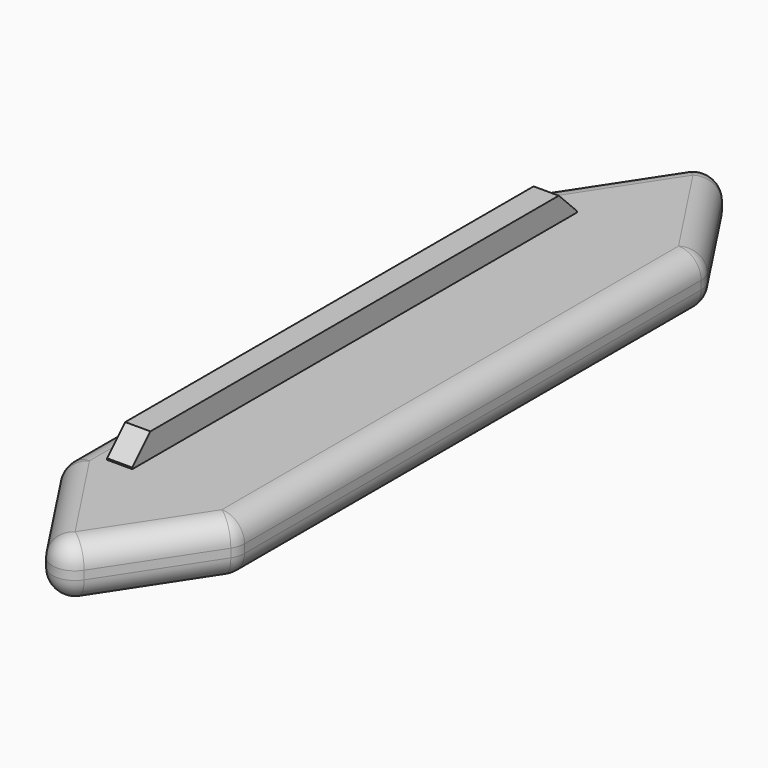
from build123d import *

# Parameters (mm, degrees)
F0_W     = 2.225
F0_H     = 49.06
F1_DEPTH = 4.5
F2_DEPTH = 2.375
F3_R     = 2
F4_SIZE  = 2


with BuildPart() as f1:
    # F0 (on Top) → F1 (new body, symmetric)
    with BuildSketch(Plane.XY):
        with Locations((-3.8675, 37.93)):
            Rectangle(F0_W, F0_H)
    extrude(amount=F1_DEPTH, both=True)

    # F0 (on Top) → F2 (join, symmetric)
    with BuildSketch(Plane.XY):
        Polygon((-7.84, 11.935359), (0, 0), (7.84, 11.935359), (7.84, 63.524641), (0, 75.46), (-7.84, 63.524641), align=None)
        with Locations((-3.8675, 37.93)):
            Rectangle(F0_W, F0_H, mode=Mode.SUBTRACT)
    extrude(amount=F2_DEPTH, both=True)

    # F3
    f3_edges = [f1.edges().sort_by_distance(p)[0] for p in [
        (-7.84, 37.73, 2.375),
        (-3.92, 69.49232, 2.375),
        (3.92, 69.49232, 2.375),
        (7.84, 37.73, 2.375),
        (-3.92, 5.96768, 2.375),
        (3.92, 5.96768, 2.375),
        (-3.92, 5.96768, -2.375),
        (-7.84, 37.73, -2.375),
        (3.92, 5.96768, -2.375),
        (7.84, 37.73, -2.375),
        (3.92, 69.49232, -2.375),
        (-3.92, 69.49232, -2.375),
        (0, 75.46, 0),
        (-7.84, 63.524641, 0),
        (7.84, 63.524641, 0),
        (7.84, 11.935359, 0),
        (-7.84, 11.935359, 0),
        (0, 0, 0),
    ]]
    fillet(f3_edges, radius=F3_R)

    # F4
    f4_edges = [f1.edges().sort_by_distance(p)[0] for p in [
        (-3.8675, 62.46, 4.5),
        (-3.8675, 62.46, -4.5),
        (-3.8675, 13.4, 4.5),
        (-3.8675, 13.4, -4.5),
    ]]
    chamfer(f4_edges, length=F4_SIZE)


solid = f1.part
